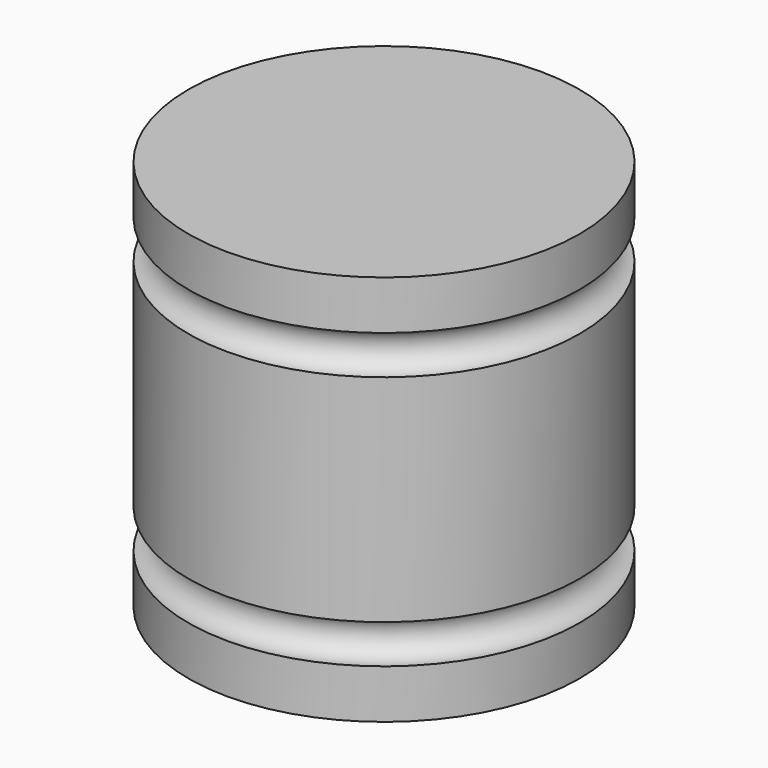
from build123d import *


with BuildPart() as f1:
    # F0 (on Front) → F1 (revolve)
    with BuildSketch(Plane.XZ):
        with BuildLine():
            Line((-25.4, 0), (0, 0))
            Line((0, 0), (0, 6.35))
            ThreePointArc((0, 6.35), (-2.795959, 8.87707), (0, 11.404141))
            Line((0, 11.404141), (0, 39.390257))
            ThreePointArc((0, 39.390257), (-2.313396, 41.920128), (0, 44.45))
            Line((0, 44.45), (0, 50.8))
            Line((0, 50.8), (-25.4, 50.8))
            Line((-25.4, 50.8), (-25.4, 0))
        make_face()
    revolve(axis=Axis((-25.4, 0, 25.4), (0, 0, 1)))


solid = f1.part
